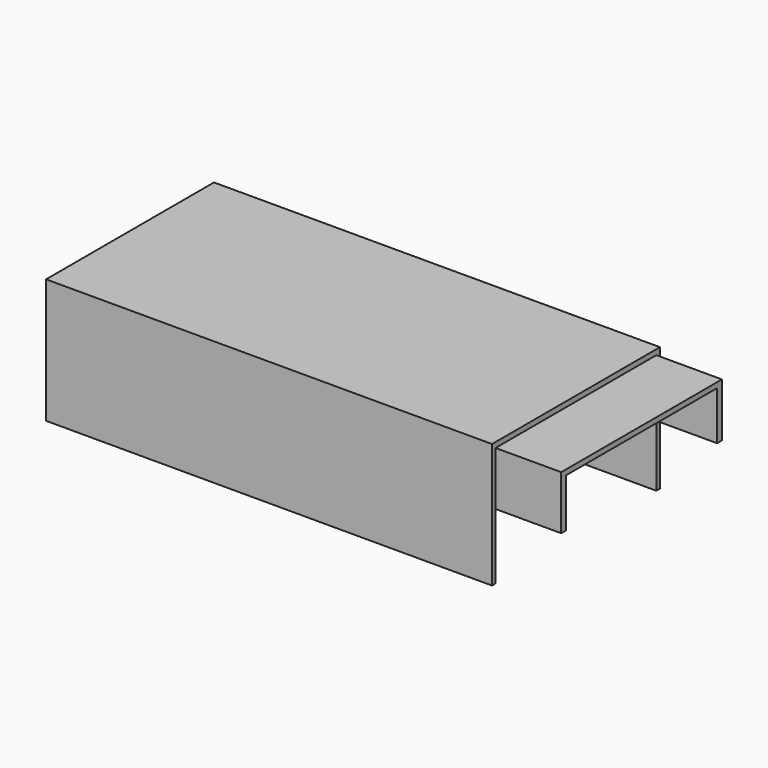
from build123d import *

# Parameters (mm, degrees)
F1_DEPTH  = 43.5
F2_W      = 170
F2_H      = 80
F3_DEPTH  = 4
F5_DEPTH  = 25
F6_W      = 25
F6_H      = 2
F7_DEPTH  = 43.5
F9_DEPTH  = 25
F10_W     = 25
F10_H     = 0.3
F11_DEPTH = 18.5
F12_W     = 25
F12_H     = 2.3
F12_H_2   = 2
F13_DEPTH = 18.5
F15_DEPTH = 25


with BuildPart() as f1:
    # F0 (on Top) → F1 (new body)
    with BuildSketch(Plane.XY):
        Polygon((-166, 0), (-166, 36), (0, 36), (0, 40), (-170, 40), (-170, -40), (0, -40), (0, -36), (-166, -36), align=None)
    extrude(amount=F1_DEPTH)

    # F2 (on face) → F3 (join)
    with BuildSketch(Plane.XY.offset(43.5)):
        with Locations((-85, 0)):
            Rectangle(F2_W, F2_H)
    extrude(amount=F3_DEPTH)

    # F4 (on face) → F5 (cut)
    with BuildSketch(Plane.XY):
        Polygon((0, -36), (-166, -36), (-166, 0), (-166, 36), (0, 36), (0, 38), (-168, 38), (-168, -38), (0, -38), align=None)
    extrude(amount=F5_DEPTH, mode=Mode.SUBTRACT)

    # F6 (on face) → F7 (cut)
    with BuildSketch(Plane.XY):
        with Locations((-12.5, -37)):
            Rectangle(F6_W, F6_H)
        with Locations((-12.5, 37)):
            Rectangle(F6_W, F6_H)
        with Locations((-12.5, 37)):
            Rectangle(F6_W, F6_H)
    extrude(amount=F7_DEPTH, mode=Mode.SUBTRACT)

    # F8 (on face) → F9 (cut)
    with BuildSketch(Plane(origin=(0, 0, 0), x_dir=(1, 0, 0), z_dir=(0, 0, -1))):
        Polygon((-168, -38), (-168, 38), (0, 38), (0, 38.3), (-168.3, 38.3), (-168.3, -38.3), (0, -38.3), (0, -38), align=None)
    extrude(amount=-F9_DEPTH, mode=Mode.SUBTRACT)

    # F10 (on face) → F11 (cut)
    with BuildSketch(Plane(origin=(0, 0, 25), x_dir=(1, 0, 0), z_dir=(0, 0, -1))):
        with Locations((-12.5, 38.15)):
            Rectangle(F10_W, F10_H)
    extrude(amount=-F11_DEPTH, mode=Mode.SUBTRACT)

    # F12 (on face) → F13 (join)
    with BuildSketch(Plane(origin=(0, 0, 25), x_dir=(1, 0, 0), z_dir=(0, 0, -1))):
        with Locations((-12.5, 37.15)):
            Rectangle(F12_W, F12_H)
        with Locations((-12.5, -37)):
            Rectangle(F12_W, F12_H_2)
    extrude(amount=-F13_DEPTH)

    # F14 (on face) → F15 (join)
    with BuildSketch(Plane.YZ):
        Polygon((-36, 43.5), (36, 43.5), (36, 25), (38.3, 25), (38.3, 45.5), (-38.3, 45.5), (-38.3, 25), (-36, 25), align=None)
    extrude(amount=F15_DEPTH)


solid = f1.part
